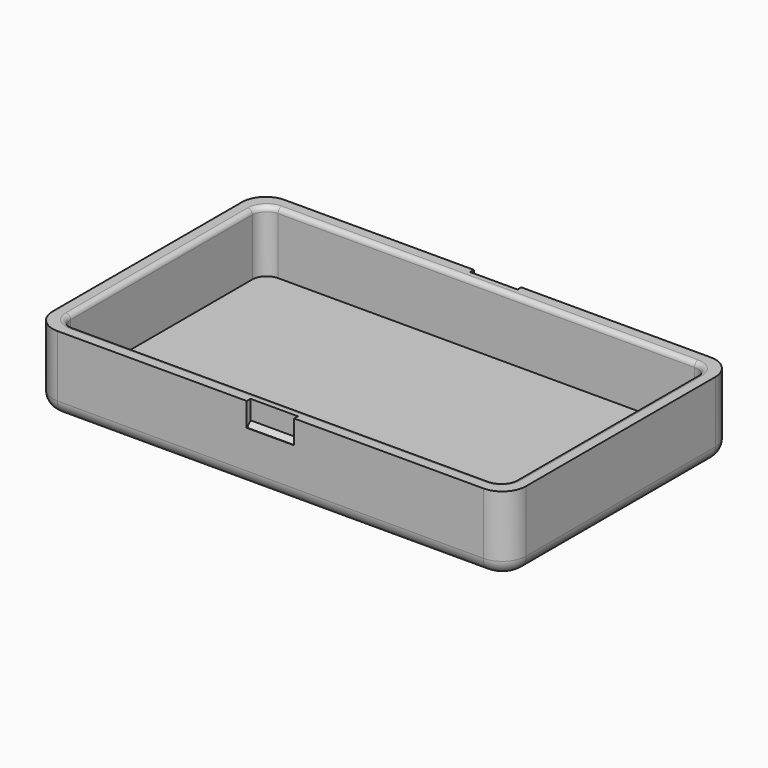
from build123d import *

# Parameters (mm, degrees)
SKETCH_W        = 100
SKETCH_H        = 60
PAD_DEPTH       = 16
FILLET_R        = 5
FILLET001_R     = 3
POCKET_DEPTH    = 13
SKETCH002_W     = 10
SKETCH002_H     = 1
POCKET001_DEPTH = 5
CHAMFER_1_ANGLE = 48
CHAMFER_1_SIZE  = 0.9
CHAMFER_2_ANGLE = 48
CHAMFER_2_SIZE  = 0.9
FILLET002_R     = 1


with BuildPart() as part:
    # Sketch → Pad (new body)
    with BuildSketch(Plane.XY):
        with Locations((50, 30)):
            Rectangle(SKETCH_W, SKETCH_H)
    extrude(amount=PAD_DEPTH)

    # Fillet
    fillet_edges = [part.edges().sort_by_distance(p)[0] for p in [
        (100, 0, 8),
        (100, 60, 8),
        (0, 60, 8),
        (0, 0, 8),
    ]]
    fillet(fillet_edges, radius=FILLET_R)

    # Fillet001
    fillet001_edges = [part.edges().sort_by_distance(p)[0] for p in [
        (50, 60, 0),
    ]]
    fillet(fillet001_edges, radius=FILLET001_R)

    # Sketch001 (on Face6 of Pad) → Pocket (cut)
    with BuildSketch(Plane.XY.offset(16)):
        with BuildLine():
            Line((6, 3), (94, 3))
            ThreePointArc((94, 3), (96.12132, 3.87868), (97, 6))
            Line((97, 6), (97, 54))
            ThreePointArc((97, 54), (96.12132, 56.12132), (94, 57))
            Line((94, 57), (6, 57))
            ThreePointArc((6, 57), (3.87868, 56.12132), (3, 54))
            Line((3, 54), (3, 6))
            ThreePointArc((3, 6), (3.87868, 3.87868), (6, 3))
        make_face()
    extrude(amount=-POCKET_DEPTH, mode=Mode.SUBTRACT)

    # Sketch002 (on Face4 of Pocket) → Pocket001 (cut)
    with BuildSketch(Plane.XY.offset(16)):
        with Locations((50, 0.5)):
            Rectangle(SKETCH002_W, SKETCH002_H)
        with Locations((50, 59.5)):
            Rectangle(SKETCH002_W, SKETCH002_H)
    extrude(amount=-POCKET001_DEPTH, mode=Mode.SUBTRACT)

    # Chamfer 1
    chamfer_1_edges = [part.edges().sort_by_distance(p)[0] for p in [
        (50, 59, 11),
    ]]
    chamfer_1_side = part.faces().sort_by_distance((50, 59, 13.5))[0]
    chamfer(chamfer_1_edges, length=CHAMFER_1_SIZE, angle=CHAMFER_1_ANGLE, reference=chamfer_1_side)

    # Chamfer 2
    chamfer_2_edges = [part.edges().sort_by_distance(p)[0] for p in [
        (50, 1, 11),
    ]]
    chamfer_2_side = part.faces().sort_by_distance((50, 0.5, 11))[0]
    chamfer(chamfer_2_edges, length=CHAMFER_2_SIZE, angle=CHAMFER_2_ANGLE, reference=chamfer_2_side)

    # Fillet002
    fillet002_edges = [part.edges().sort_by_distance(p)[0] for p in [
        (3, 30, 16),
    ]]
    fillet(fillet002_edges, radius=FILLET002_R)


solid = part.part
